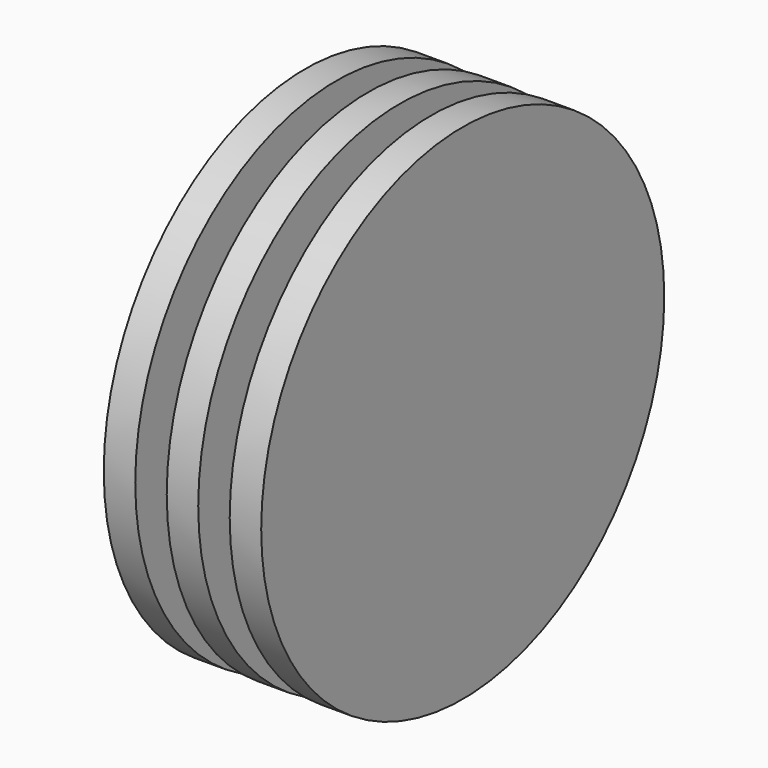
from build123d import *

# Parameters (mm, degrees)
F0_R     = 12.7
F1_DEPTH = 1.5875
F2_R     = 3.175
F3_DEPTH = 1.5875
F4_R     = 12.7
F4_R_2   = 3.175
F5_DEPTH = 1.5875
F6_R     = 3.175
F7_DEPTH = 1.5875
F8_R     = 12.7
F8_R_2   = 3.175
F9_DEPTH = 1.5875


with BuildPart() as f1:
    # F0 (on Right) → F1 (new body)
    with BuildSketch(Plane.YZ):
        Circle(F0_R)
    extrude(amount=-F1_DEPTH)

    # F2 (on face) → F3 (join)
    with BuildSketch(Plane.YZ):
        Circle(F2_R)
    extrude(amount=F3_DEPTH)


with BuildPart() as f5:
    # F4 (on face) → F5 (new body)
    with BuildSketch(Plane.YZ.offset(1.5875)):
        Circle(F4_R)
        Circle(F4_R_2, mode=Mode.SUBTRACT)
        Circle(F4_R_2)
    extrude(amount=F5_DEPTH)

    # F6 (on face) → F7 (join)
    with BuildSketch(Plane.YZ.offset(3.175)):
        Circle(F6_R)
    extrude(amount=F7_DEPTH)

    # F8 (on face) → F9 (join)
    with BuildSketch(Plane.YZ.offset(4.7625)):
        Circle(F8_R)
        Circle(F8_R_2, mode=Mode.SUBTRACT)
        Circle(F8_R_2)
    extrude(amount=F9_DEPTH)


solid = Compound([f1.part, f5.part])
